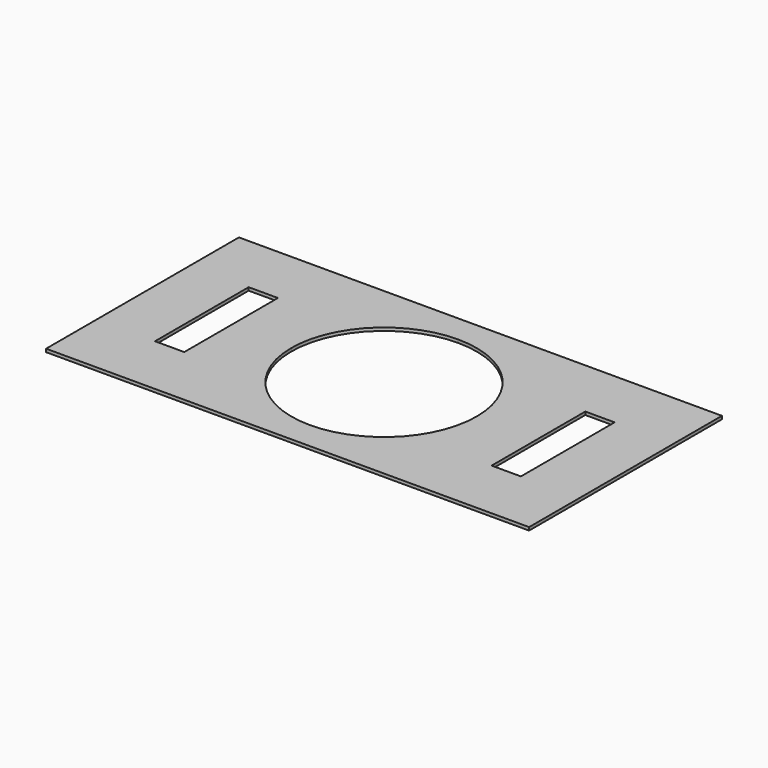
from build123d import *

# Parameters (mm, degrees)
F1_DEPTH = 3.175


with BuildPart() as f1:
    # F0 (on Top) → F1 (new body)
    with BuildSketch(Plane.XY):
        with BuildLine():
            Line((0, 123.5), (-247.5, 123.5))
            Line((-247.5, 123.5), (-247.5, 0))
            Line((-247.5, 0), (-187.5, 0))
            Line((-187.5, 0), (-187.5, 61))
            Line((-187.5, 61), (-157.5, 61))
            Line((-157.5, 61), (-157.5, 0))
            Line((-157.5, 0), (-95, 0))
            ThreePointArc((-95, 0), (-67.175144, 67.175144), (0, 95))
            Line((0, 95), (0, 123.5))
        make_face()
        with BuildLine():
            Line((247.5, 123.5), (0, 123.5))
            Line((0, 123.5), (0, 95))
            ThreePointArc((0, 95), (67.175144, 67.175144), (95, 0))
            Line((95, 0), (157.5, 0))
            Line((157.5, 0), (157.5, 61))
            Line((157.5, 61), (187.5, 61))
            Line((187.5, 61), (187.5, 0))
            Line((187.5, 0), (247.5, 0))
            Line((247.5, 0), (247.5, 123.5))
        make_face()
        with BuildLine():
            Line((-187.5, 0), (-247.5, 0))
            Line((-247.5, 0), (-247.5, -123.5))
            Line((-247.5, -123.5), (0, -123.5))
            Line((0, -123.5), (0, -95))
            ThreePointArc((0, -95), (-67.175144, -67.175144), (-95, 0))
            Line((-95, 0), (-157.5, 0))
            Line((-157.5, 0), (-157.5, -59))
            Line((-157.5, -59), (-187.5, -59))
            Line((-187.5, -59), (-187.5, 0))
        make_face()
        with BuildLine():
            Line((247.5, -123.5), (247.5, 0))
            Line((247.5, 0), (187.5, 0))
            Line((187.5, 0), (187.5, -59))
            Line((187.5, -59), (157.5, -59))
            Line((157.5, -59), (157.5, 0))
            Line((157.5, 0), (95, 0))
            ThreePointArc((95, 0), (67.175144, -67.175144), (0, -95))
            Line((0, -95), (0, -123.5))
            Line((0, -123.5), (247.5, -123.5))
        make_face()
    extrude(amount=-F1_DEPTH)


solid = f1.part
